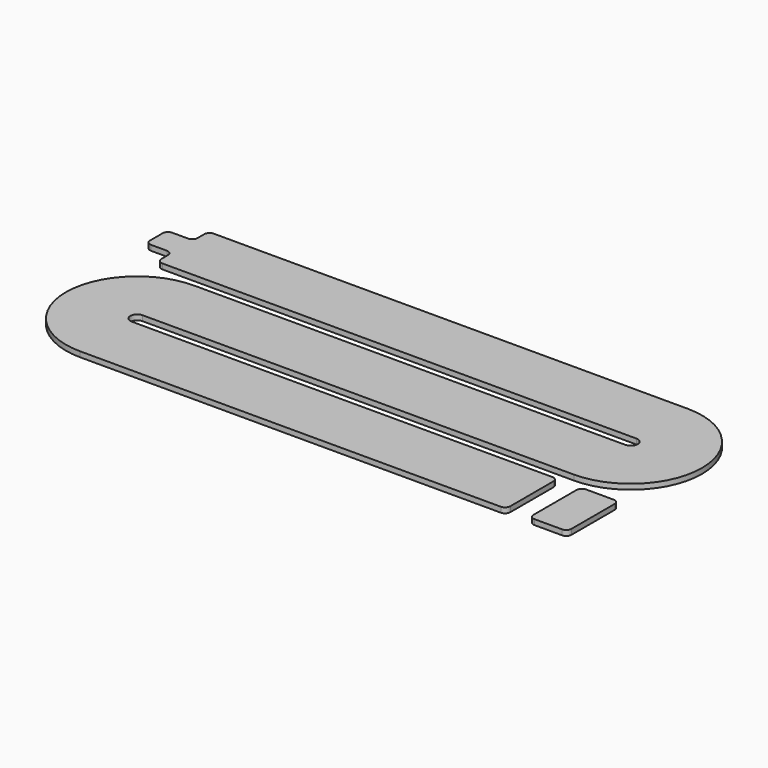
from build123d import *

# Parameters (mm, degrees)
F0_W     = 22.86
F0_H     = 38.735
F1_DEPTH = 3.175
F2_R     = 3.175


with BuildPart() as f1:
    # F0 (on Top) → F1 (new body)
    with BuildSketch(Plane.XY):
        with BuildLine():
            ThreePointArc((144.2085, -19.3675), (187.071, 23.495), (144.2085, 66.3575))
            Line((144.2085, 66.3575), (-144.2085, 66.3575))
            Line((-144.2085, 66.3575), (-144.2085, 54.9275))
            Line((-144.2085, 54.9275), (-160.0835, 54.9275))
            Line((-160.0835, 54.9275), (-160.0835, 39.0525))
            Line((-160.0835, 39.0525), (-144.2085, 39.0525))
            Line((-144.2085, 39.0525), (-144.2085, 27.6225))
            Line((-144.2085, 27.6225), (144.2085, 27.6225))
            ThreePointArc((144.2085, 27.6225), (148.336, 23.495), (144.2085, 19.3675))
            Line((144.2085, 19.3675), (-115.2525, 19.3675))
            ThreePointArc((-115.2525, 19.3675), (-158.115, -23.495), (-115.2525, -66.3575))
            Line((-115.2525, -66.3575), (141.0335, -66.3575))
            Line((141.0335, -66.3575), (141.0335, -27.6225))
            Line((141.0335, -27.6225), (-115.2525, -27.6225))
            ThreePointArc((-115.2525, -27.6225), (-119.38, -23.495), (-115.2525, -19.3675))
            Line((-115.2525, -19.3675), (144.2085, -19.3675))
        make_face()
        with Locations((166.4335, -46.99)):
            Rectangle(F0_W, F0_H)
    extrude(amount=F1_DEPTH)

    # F2
    f2_edges = [f1.edges().sort_by_distance(p)[0] for p in [
        (141.0335, -27.6225, 1.5875),
        (177.8635, -27.6225, 1.5875),
        (141.0335, -66.3575, 1.5875),
        (155.0035, -66.3575, 1.5875),
        (177.8635, -66.3575, 1.5875),
        (155.0035, -27.6225, 1.5875),
        (-144.2085, 66.3575, 1.5875),
        (-144.2085, 54.9275, 1.5875),
        (-160.0835, 54.9275, 1.5875),
        (-160.0835, 39.0525, 1.5875),
        (-144.2085, 27.6225, 1.5875),
        (-144.2085, 39.0525, 1.5875),
    ]]
    fillet(f2_edges, radius=F2_R)


solid = f1.part
